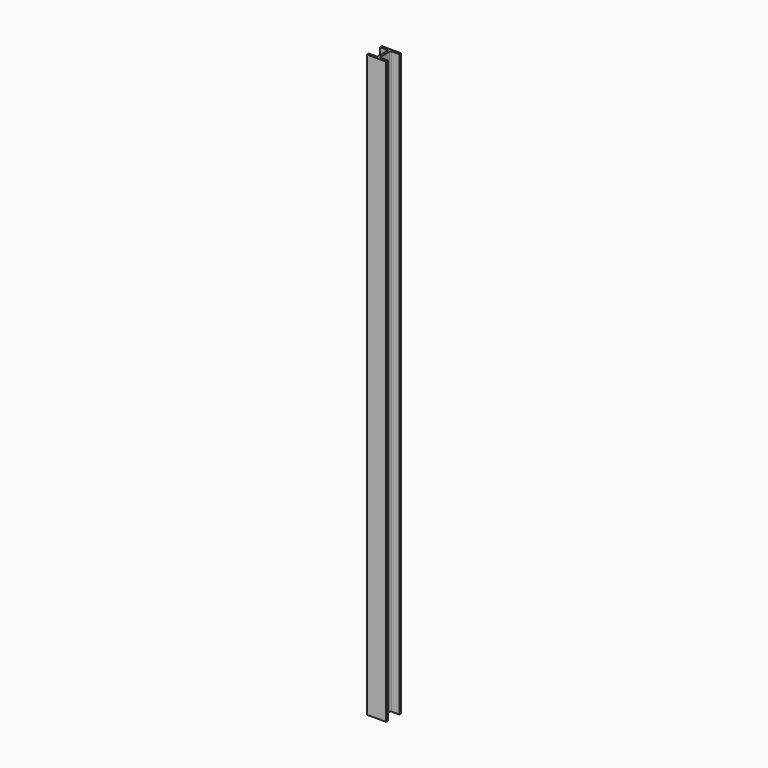
from build123d import *

# Parameters (mm, degrees)
F1_DEPTH = 6300
F2_R     = 10


with BuildPart() as f1:
    # F0 (on Top) → F1 (new body)
    with BuildSketch(Plane.XY):
        Polygon((86.586575, 106.91089), (-123.413425, 106.91089), (-123.413425, 81.91089), (-33.266278, 81.91089), (-33.266278, -68.08911), (-125.766278, -68.08911), (-125.766278, -93.08911), (84.233722, -93.08911), (84.233722, -68.08911), (-8.266278, -68.08911), (-8.266278, 81.91089), (86.586575, 81.91089), align=None)
    extrude(amount=F1_DEPTH)

    # F2
    f2_edges = [f1.edges().sort_by_distance(p)[0] for p in [
        (-8.266278, 81.91089, 3150),
        (-33.266278, 81.91089, 3150),
        (-33.266278, -68.08911, 3150),
        (-8.266278, -68.08911, 3150),
    ]]
    fillet(f2_edges, radius=F2_R)


solid = f1.part
